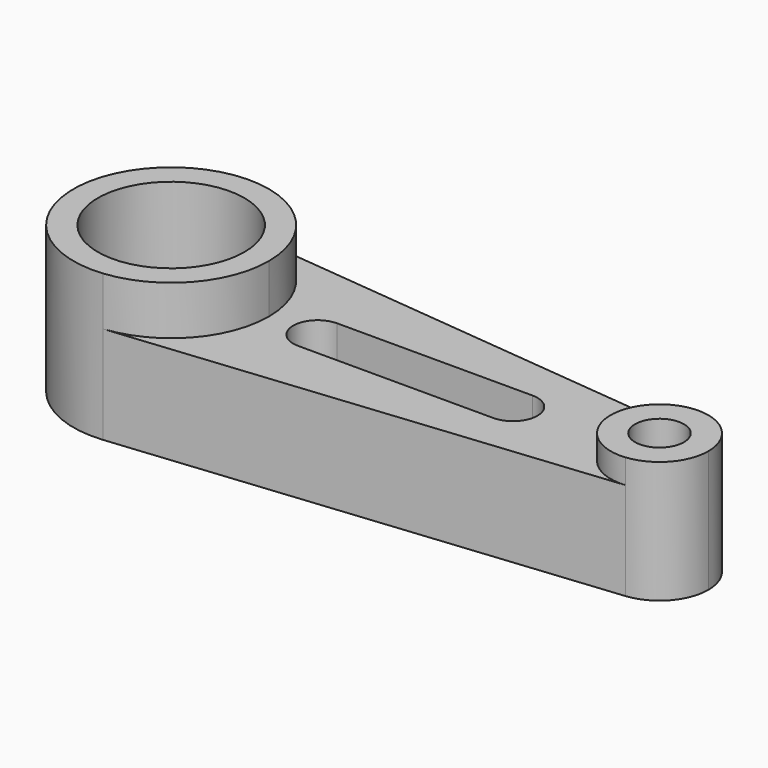
from build123d import *

# Parameters (mm, degrees)
F0_R     = 19.05
F0_R_2   = 6.35
F1_DEPTH = 25.4
F2_R     = 19.05
F3_DEPTH = 12.7
F4_R     = 6.35
F5_DEPTH = 6.35


with BuildPart() as f1:
    # F0 (on Top) → F1 (new body)
    with BuildSketch(Plane.XY):
        with BuildLine():
            ThreePointArc((-101.320171, 25.272681), (-85.023027, 17.038838), (-78.460171, 0))
            ThreePointArc((-78.460171, 0), (-85.023027, -17.038838), (-101.320171, -25.272681))
            Line((-101.320171, -25.272681), (24.409829, -12.63634))
            ThreePointArc((24.409829, -12.63634), (10.439829, 0), (24.409829, 12.63634))
            Line((24.409829, 12.63634), (-101.320171, 25.272681))
        make_face()
        with BuildLine():
            Line((-14.960171, -6.35), (-65.760171, -6.35))
            ThreePointArc((-65.760171, -6.35), (-72.110171, 0), (-65.760171, 6.35))
            Line((-65.760171, 6.35), (-14.960171, 6.35))
            ThreePointArc((-14.960171, 6.35), (-8.610171, 0), (-14.960171, -6.35))
        make_face(mode=Mode.SUBTRACT)
        with BuildLine():
            ThreePointArc((-101.320171, -25.272681), (-85.023027, -17.038838), (-78.460171, 0))
            ThreePointArc((-78.460171, 0), (-85.023027, 17.038838), (-101.320171, 25.272681))
            ThreePointArc((-101.320171, 25.272681), (-129.260171, 0), (-101.320171, -25.272681))
        make_face()
        with Locations((-103.860171, 0)):
            Circle(F0_R, mode=Mode.SUBTRACT)
        with BuildLine():
            ThreePointArc((35.839829, 0), (32.558401, 8.519419), (24.409829, 12.63634))
            ThreePointArc((24.409829, 12.63634), (10.439829, 0), (24.409829, -12.63634))
            ThreePointArc((24.409829, -12.63634), (32.558401, -8.519419), (35.839829, 0))
        make_face()
        with Locations((23.139829, 0)):
            Circle(F0_R_2, mode=Mode.SUBTRACT)
    extrude(amount=F1_DEPTH)

    # F2 (on face) → F3 (join)
    with BuildSketch(Plane.XY.offset(25.4)):
        with BuildLine():
            ThreePointArc((-101.320171, -25.272681), (-85.023027, -17.038838), (-78.460171, 0))
            ThreePointArc((-78.460171, 0), (-85.023027, 17.038838), (-101.320171, 25.272681))
            ThreePointArc((-101.320171, 25.272681), (-129.260171, 0), (-101.320171, -25.272681))
        make_face()
        with Locations((-103.860171, 0)):
            Circle(F2_R, mode=Mode.SUBTRACT)
    extrude(amount=F3_DEPTH)

    # F4 (on face) → F5 (join)
    with BuildSketch(Plane.XY.offset(25.4)):
        with BuildLine():
            ThreePointArc((24.409829, -12.63634), (32.558401, -8.519419), (35.839829, 0))
            ThreePointArc((35.839829, 0), (32.558401, 8.519419), (24.409829, 12.63634))
            ThreePointArc((24.409829, 12.63634), (10.439829, 0), (24.409829, -12.63634))
        make_face()
        with Locations((23.139829, 0)):
            Circle(F4_R, mode=Mode.SUBTRACT)
    extrude(amount=F5_DEPTH)


solid = f1.part
